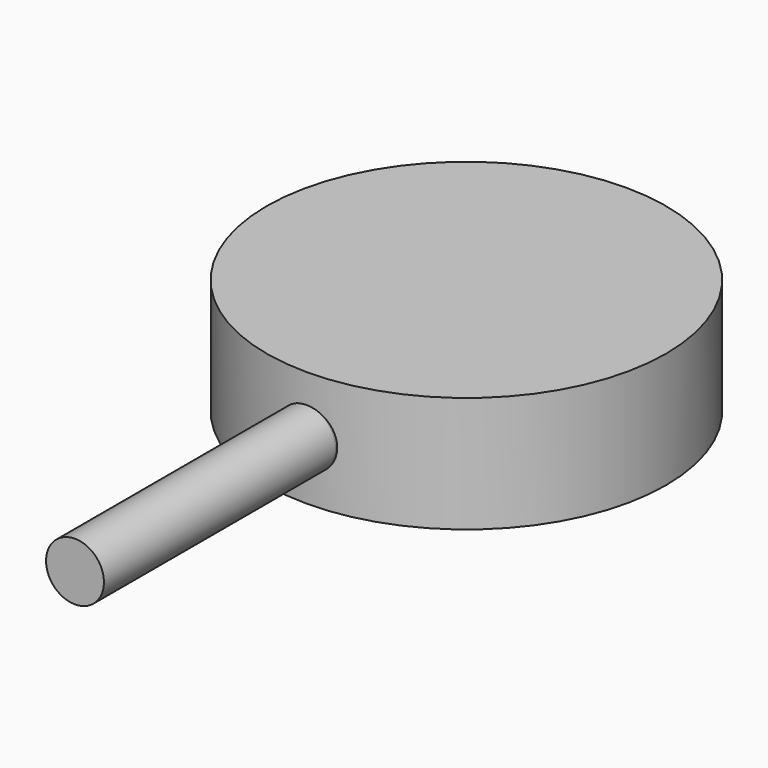
from build123d import *

# Parameters (mm, degrees)
F0_R          = 13.8
F1_DEPTH      = 8
F5_R          = 2
F6_DEPTH      = 20
F6_DEPTH_BACK = 13.7


with BuildPart() as f1:
    # F0 (on Top) → F1 (new body)
    with BuildSketch(Plane.XY):
        Circle(F0_R)
    extrude(amount=F1_DEPTH)

    # F5 (on plane+point) → F6 (join, two sides)
    with BuildSketch(Plane.XZ.offset(13.8)) as f6_sk:
        with Locations((0, 4)):
            Circle(F5_R)
    extrude(amount=F6_DEPTH)
    extrude(f6_sk.sketch, amount=-F6_DEPTH_BACK)


solid = f1.part
